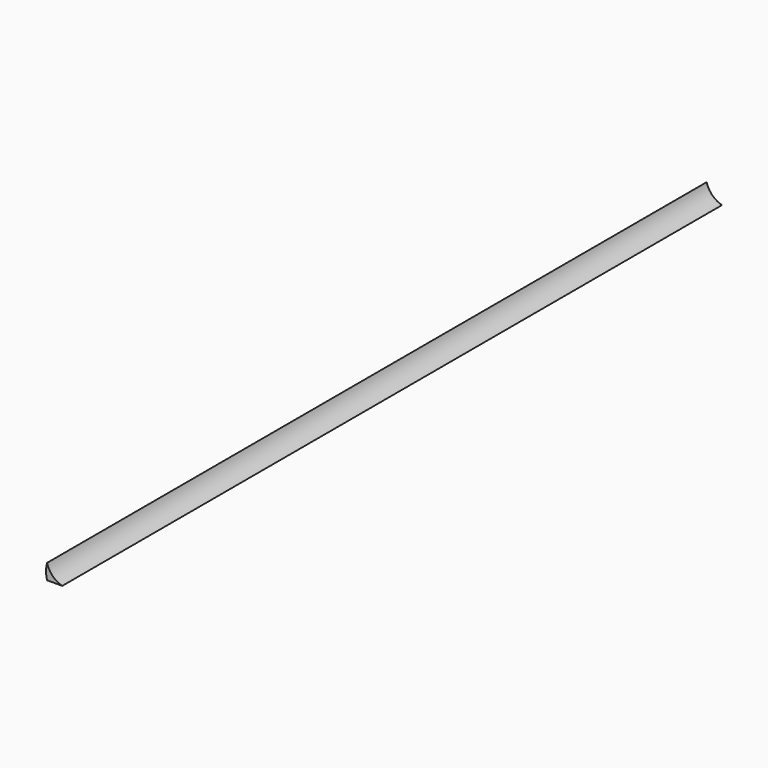
from build123d import *

# Parameters (mm, degrees)
F1_DEPTH = 270
F2_ANGLE = 90


with BuildPart() as f1:
    # F0 (on Front) → F1 (new body)
    with BuildSketch(Plane.XZ):
        with BuildLine():
            ThreePointArc((-5.0110737885, 0.0082104237), (-2.5058816843, -0.3134710408), (0, 0.0027937665))
            Line((0, 0.0027937665), (0, 5))
            ThreePointArc((0, 5), (-1.845192251, 1.8412095343), (-5.0110737885, 0.0082104237))
        make_face()
    extrude(amount=F1_DEPTH)


with BuildPart() as f1_1:
    # F2: moved
    add(f1.part.rotate(Axis((0, -135, 0.0027937665), (0, 1, 0)), F2_ANGLE))


solid = f1_1.part
